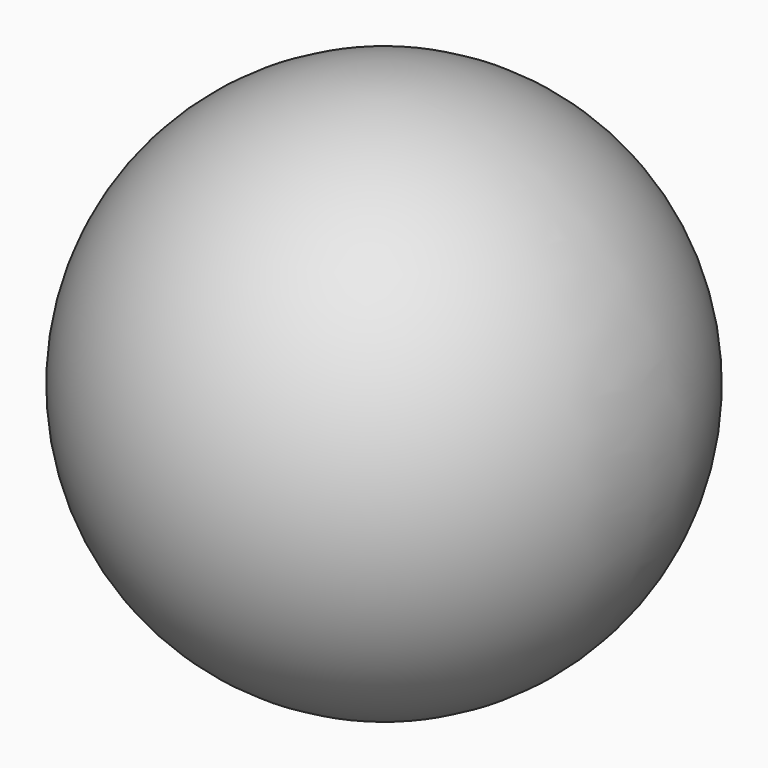
from build123d import *


with BuildPart() as part:
    # Sphere → Sphere (revolve)
    with BuildSketch(Plane(origin=(100, 0, 0), x_dir=(1, 0, 0), z_dir=(0, -1, 0))):
        with BuildLine():
            ThreePointArc((0, -10), (10, 0), (0, 10))
            Line((0, 10), (0, -10))
        make_face()
    revolve(axis=Axis((100, 0, 0), (0, 0, 1)))


solid = part.part
